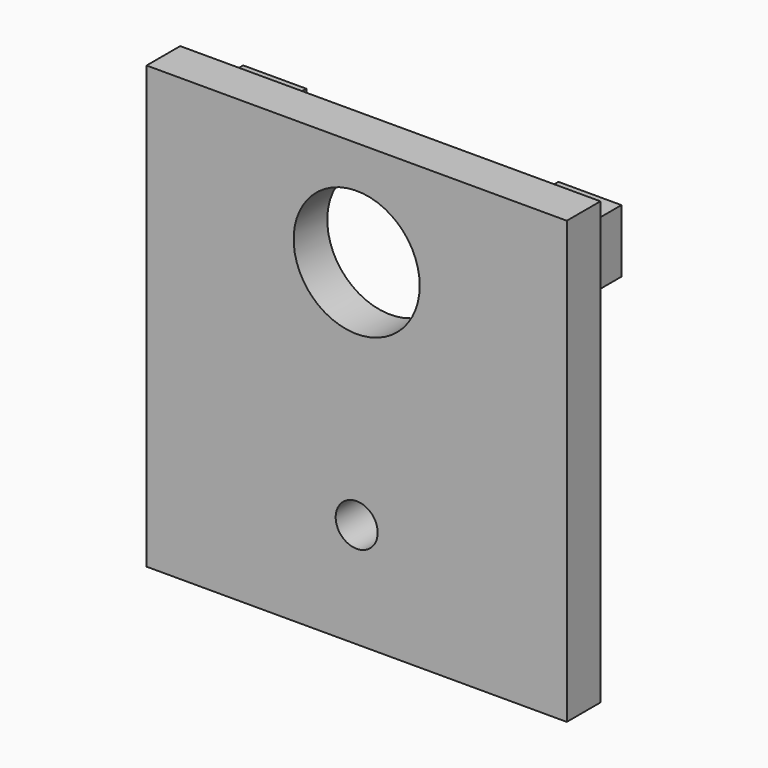
from build123d import *

# Parameters (mm, degrees)
F0_W     = 17.4625
F0_H     = 63.5
F0_R     = 3.175
F0_R_2   = 9.525
F0_W_2   = 21.1666666667
F0_H_2   = 3.175
F1_DEPTH = 3.175
F2_W     = 9.525
F2_H     = 9.525
F3_DEPTH = 7.9375


with BuildPart() as f1:
    # F0 (on Front) → F1 (new body, symmetric)
    with BuildSketch(Plane.XZ):
        Polygon((-10.4423522066, -45.1256732441), (-27.9048522066, -45.1256732441), (-27.9048522066, -48.3006732441), (-6.7381855399, -48.3006732441), (-6.7381855399, -45.1256732441), align=None)
        Polygon((35.5951477934, -45.1256732441), (18.1326477934, -45.1256732441), (14.4284811268, -45.1256732441), (14.4284811268, -48.3006732441), (35.5951477934, -48.3006732441), align=None)
        with Locations((-19.1736022066, -13.3756732441)):
            Rectangle(F0_W, F0_H)
        Polygon((18.1326477934, 18.3743267559), (-10.4423522066, 18.3743267559), (-10.4423522066, -45.1256732441), (-6.7381855399, -45.1256732441), (14.4284811268, -45.1256732441), (18.1326477934, -45.1256732441), align=None)
        with Locations((3.8451477934, -32.4256732441)):
            Circle(F0_R, mode=Mode.SUBTRACT)
        with Locations((3.8451477934, 2.4993267559)):
            Circle(F0_R_2, mode=Mode.SUBTRACT)
        with Locations((26.8638977934, -13.3756732441)):
            Rectangle(F0_W, F0_H)
        Polygon((18.1326477934, 18.3743267559), (-10.4423522066, 18.3743267559), (-10.4423522066, -45.1256732441), (-6.7381855399, -45.1256732441), (14.4284811268, -45.1256732441), (18.1326477934, -45.1256732441), align=None)
        with Locations((3.8451477934, -32.4256732441)):
            Circle(F0_R, mode=Mode.SUBTRACT)
        with Locations((3.8451477934, 2.4993267559)):
            Circle(F0_R_2, mode=Mode.SUBTRACT)
        with Locations((3.8451477934, -46.7131732441)):
            Rectangle(F0_W_2, F0_H_2)
    extrude(amount=F1_DEPTH, both=True)

    # F2 (on face) → F3 (join)
    with BuildSketch(Plane(origin=(0, 3.175, 0), x_dir=(-1, 0, 0), z_dir=(0, 1, 0))):
        with Locations((19.9673522066, 8.8493267559)):
            Rectangle(F2_W, F2_H)
        with Locations((-27.6576477934, 8.8493267559)):
            Rectangle(F2_W, F2_H)
        with Locations((-13.3701477934, -34.0131732441)):
            Rectangle(F2_W, F2_H)
        with Locations((5.6798522066, -34.0131732441)):
            Rectangle(F2_W, F2_H)
    extrude(amount=F3_DEPTH)


solid = f1.part
